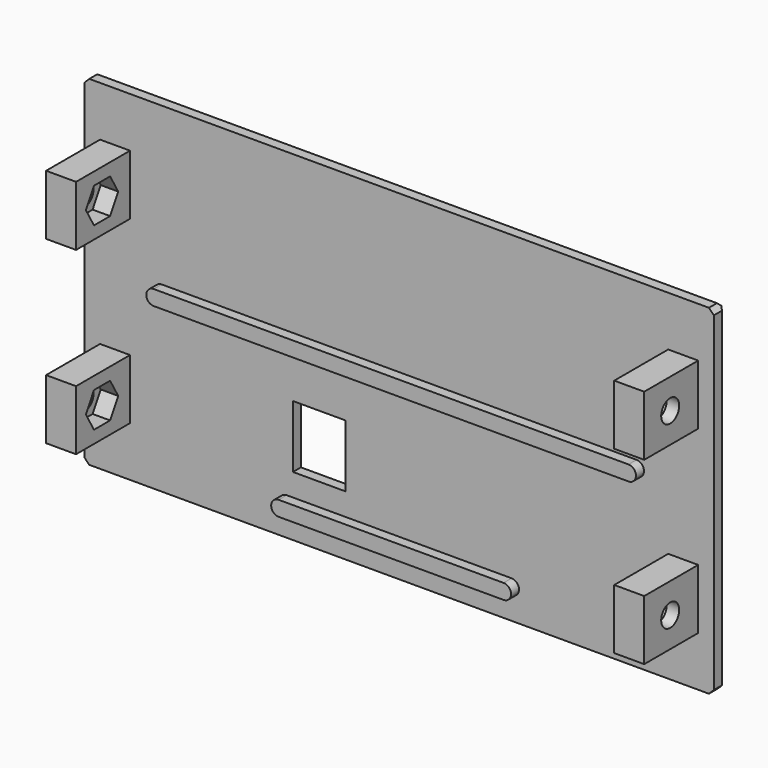
from build123d import *

# Parameters (mm, degrees)
SKETCH018_W             = 126
SKETCH018_H             = 68
PAD008_DEPTH            = 3
SKETCH019_W             = 6
SKETCH019_H             = 12
PAD009_DEPTH            = 13.5
SKETCH020_R             = 2.25
POCKET009_DEPTH         = 122.851
POCKET010_DEPTH         = 3.5
SKETCH022_W             = 10.5
SKETCH022_H             = 12.5
POCKET011_DEPTH         = 16.501
CHAMFER001_SIZE         = 1
CHAMFER006_SIZE         = 1
CHAMFER009_SIZE         = 1
PAD015_DEPTH            = 2
BODY004_PLACEMENT_ANGLE = 180


with BuildPart() as part:
    # Sketch018 → Pad008 (new body)
    with BuildSketch(Plane.XZ):
        with Locations((0, 34)):
            Rectangle(SKETCH018_W, SKETCH018_H)
    extrude(amount=PAD008_DEPTH)

    # Sketch019 (on Face5 of Pad008) → Pad009 (join)
    with BuildSketch(Plane(origin=(0, 0, 0), x_dir=(1, 0, 0), z_dir=(0, 1, 0))):
        with Locations((-56.85, -16)):
            Rectangle(SKETCH019_W, SKETCH019_H)
        with Locations((-56.85, -52)):
            Rectangle(SKETCH019_W, SKETCH019_H)
    pad009 = extrude(amount=PAD009_DEPTH)

    # Mirrored004: Pad009 across YZ
    add(pad009.mirror(Plane.YZ))

    # Sketch020 (on Face22 of Mirrored004) → Pocket009 (cut, through all)
    with BuildSketch(Plane(origin=(59.85, 0, 0), x_dir=(0, 0, 1), z_dir=(1, 0, 0))):
        with Locations((16, -7)):
            Circle(SKETCH020_R)
        with Locations((52, -7)):
            Circle(SKETCH020_R)
    extrude(amount=-POCKET009_DEPTH, mode=Mode.SUBTRACT)

    # Sketch021 (on Face10 of Pocket009) → Pocket010 (cut)
    with BuildSketch(Plane(origin=(-53.85, 0, 0), x_dir=(0, 0, 1), z_dir=(1, 0, 0))):
        Polygon((19.5, -9.020726), (19.5, -4.979274), (16, -2.958548), (12.5, -4.979274), (12.5, -9.020726), (16, -11.041452), align=None)
        Polygon((55.5, -9.020726), (55.5, -4.979274), (52, -2.958548), (48.5, -4.979274), (48.5, -9.020726), (52, -11.041452), align=None)
    pocket010 = extrude(amount=-POCKET010_DEPTH, mode=Mode.SUBTRACT)

    # Sketch022 (on Face5 of Pocket010) → Pocket011 (cut, through all)
    with BuildSketch(Plane.XZ.offset(3)):
        with Locations((16, 18.25)):
            Rectangle(SKETCH022_W, SKETCH022_H)
    extrude(amount=-POCKET011_DEPTH, mode=Mode.SUBTRACT)

    # Chamfer001
    chamfer001_edges = [part.edges().sort_by_distance(p)[0] for p in [
        (0, -3, 68),
        (-63, -3, 34),
        (63, -3, 34),
        (0, -3, 0),
        (16, -3, 24.5),
        (21.25, -3, 18.25),
        (16, -3, 12),
        (10.75, -3, 18.25),
    ]]
    chamfer(chamfer001_edges, length=CHAMFER001_SIZE)

    # Chamfer006
    chamfer006_edges = [part.edges().sort_by_distance(p)[0] for p in [
        (-63, -1, 68),
        (63, -1, 68),
    ]]
    chamfer(chamfer006_edges, length=CHAMFER006_SIZE)

    # Chamfer009
    chamfer009_edges = [part.edges().sort_by_distance(p)[0] for p in [
        (-63, -1, 0),
        (63, -1, 0),
    ]]
    chamfer(chamfer009_edges, length=CHAMFER009_SIZE)

    # Mirrored006: Pocket010 across YZ
    add(pocket010.mirror(Plane.YZ), mode=Mode.SUBTRACT)

    # Sketch034 (on Face1 of Mirrored006) → Pad015 (join)
    with BuildSketch(Plane(origin=(0, 0, 0), x_dir=(1, 0, 0), z_dir=(0, 1, 0))):
        with BuildLine():
            ThreePointArc((-22.5, -4.5), (-24, -6), (-22.5, -7.5))
            Line((-22.5, -7.5), (22.5, -7.5))
            ThreePointArc((22.5, -7.5), (24, -6), (22.5, -4.5))
            Line((-22.5, -4.5), (22.5, -4.5))
        make_face()
        with BuildLine():
            ThreePointArc((-47.5, -33.5), (-49, -35), (-47.5, -36.5))
            Line((-47.5, -36.5), (47.5, -36.5))
            ThreePointArc((47.5, -36.5), (49, -35), (47.5, -33.5))
            Line((-47.5, -33.5), (47.5, -33.5))
        make_face()
    extrude(amount=PAD015_DEPTH)


with BuildPart() as part_1:
    # Body004 placement: moved
    add(part.part.moved(Location((0, 66.95, 0))).rotate(Axis((0, 66.95, 0), (0, 0, 1)), BODY004_PLACEMENT_ANGLE))


solid = part_1.part
